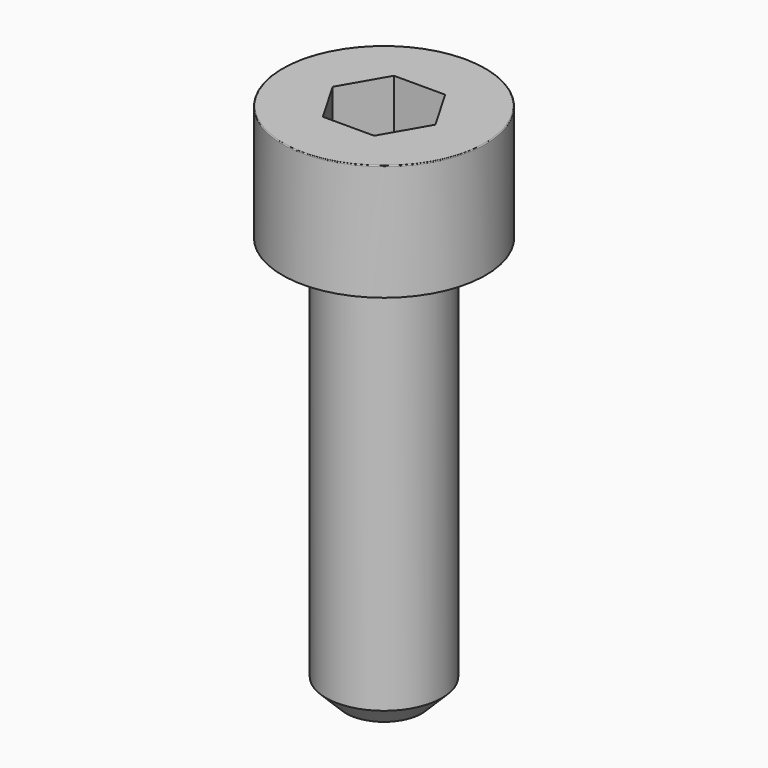
from build123d import *

# Parameters (mm, degrees)
POCKET_DEPTH = 3.06


with BuildPart() as part:
    # Sketch → Revolve (revolve)
    with BuildSketch(Plane.YZ):
        with BuildLine():
            Line((1.999, 0), (3.5, 0))
            Line((3.5, 0), (3.5, 3.97229))
            ThreePointArc((3.5, 3.97229), (3.491884, 3.991884), (3.47229, 4))
            Line((3.47229, 4), (0, 4))
            Line((0, -14), (0, 4))
            Line((1.3, -14), (0, -14))
            Line((2, -13.3), (1.3, -14))
            Line((2, -0.2), (2, -13.3))
            Line((1.999, 0), (2, -0.2))
        make_face()
    revolve(axis=Axis((0, 0, 0), (0, 0, 1)))

    # Sketch001 → Pocket (cut)
    with BuildSketch(Plane.XY.offset(4)):
        Polygon((1.766692, 0), (0.883346, 1.53), (-0.883346, 1.53), (-1.766692, 0), (-0.883346, -1.53), (0.883346, -1.53), align=None)
    extrude(amount=-POCKET_DEPTH, mode=Mode.SUBTRACT)


solid = part.part
